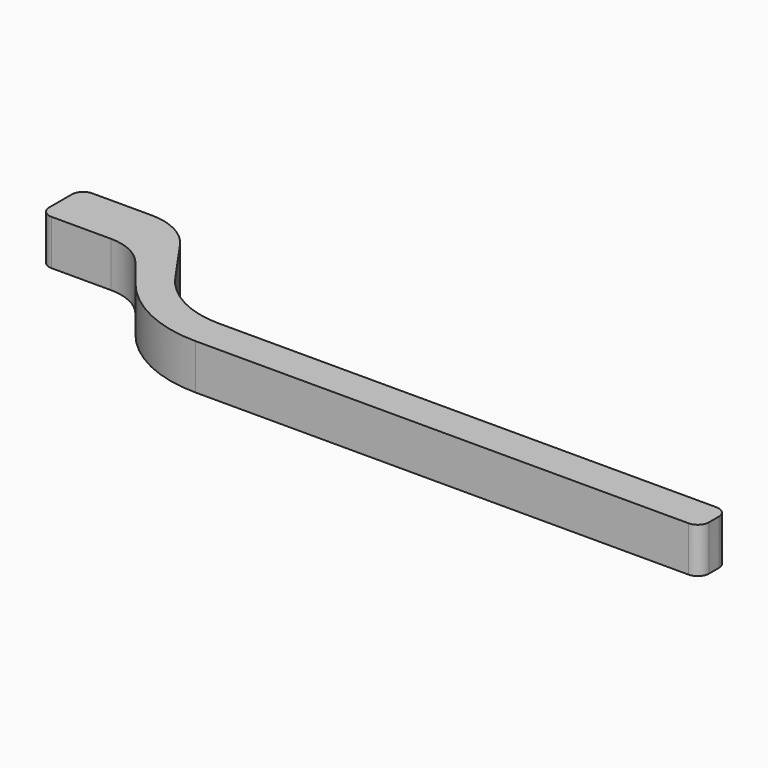
from build123d import *

# Parameters (mm, degrees)
F0_W     = 12.5
F0_H     = 9
F1_DEPTH = 8
F2_R     = 2.15
F3_DEPTH = 6.5
F4_R     = 2


with BuildPart() as f1:
    # F0 (on Top) → F1 (new body)
    with BuildSketch(Plane.XY):
        Rectangle(F0_W, F0_H)
        with BuildLine():
            ThreePointArc((14.872505, 0), (11.113065, 3.307334), (6.25, 4.5))
            Line((6.25, 4.5), (6.25, -4.5))
            ThreePointArc((6.25, -4.5), (10.167104, -5.392854), (13.310355, -7.895026))
            Line((13.310355, -7.895026), (17.232623, -12.801666))
            ThreePointArc((17.232623, -12.801666), (24.927557, -18.927186), (34.516945, -21.112965))
            Line((34.516945, -21.112965), (123.75, -21.112965))
            Line((123.75, -21.112965), (123.75, -14.964157))
            Line((123.75, -14.964157), (33.715505, -14.964157))
            ThreePointArc((33.715505, -14.964157), (26.258617, -13.135356), (20.493996, -8.063982))
            Line((20.493996, -8.063982), (14.872505, 0))
        make_face()
    extrude(amount=F1_DEPTH)

    # F2 (on face) → F3 (cut)
    with BuildSketch(Plane(origin=(-6.25, 0, 0), x_dir=(0, -1, 0), z_dir=(-1, 0, 0))):
        with Locations((0, 4)):
            Circle(F2_R)
    extrude(amount=-F3_DEPTH, mode=Mode.SUBTRACT)

    # F4
    f4_edges = [f1.edges().sort_by_distance(p)[0] for p in [
        (-6.25, -4.5, 4),
        (123.75, -21.112965, 4),
        (123.75, -14.964157, 4),
        (-6.25, 4.5, 4),
    ]]
    fillet(f4_edges, radius=F4_R)


solid = f1.part
